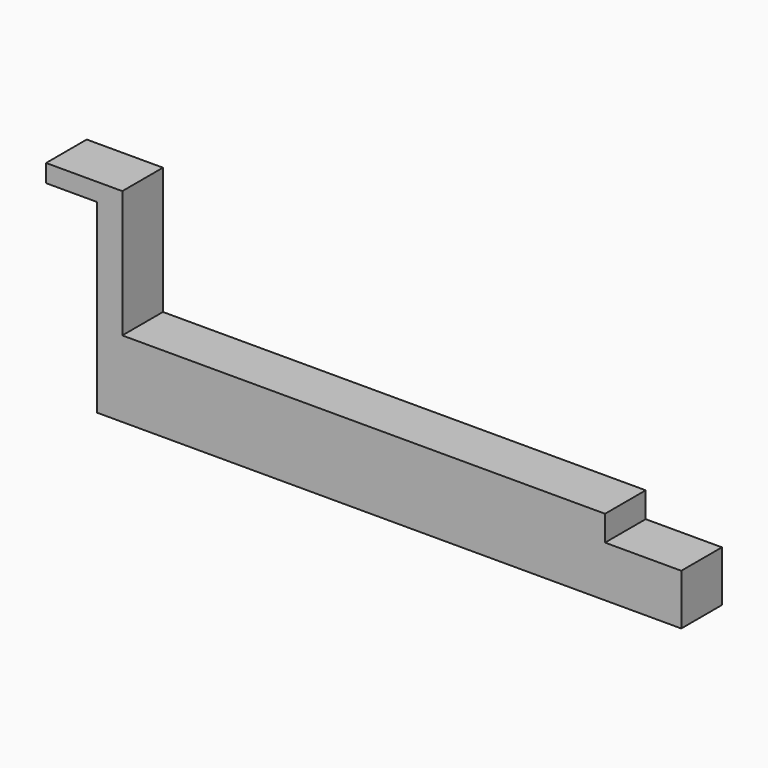
from build123d import *

# Parameters (mm, degrees)
F0_W     = 115
F0_H     = 15
F1_DEPTH = 10
F2_W     = 15
F2_H     = 10
F3_DEPTH = 5
F4_W     = 5
F4_H     = 10
F5_DEPTH = 25
F6_W     = 10
F6_H     = 3.5
F7_DEPTH = 10


with BuildPart() as f1:
    # F0 (on Front) → F1 (new body)
    with BuildSketch(Plane.XZ):
        Rectangle(F0_W, F0_H)
    extrude(amount=F1_DEPTH)

    # F2 (on face) → F3 (cut)
    with BuildSketch(Plane.XY.offset(7.5)):
        with Locations((50, -5)):
            Rectangle(F2_W, F2_H)
    extrude(amount=-F3_DEPTH, mode=Mode.SUBTRACT)

    # F4 (on face) → F5 (join)
    with BuildSketch(Plane.XY.offset(7.5)):
        with Locations((-55, -5)):
            Rectangle(F4_W, F4_H)
    extrude(amount=F5_DEPTH)

    # F6 (on face) → F7 (join)
    with BuildSketch(Plane(origin=(-57.5, 0, 0), x_dir=(0, -1, 0), z_dir=(-1, 0, 0))):
        with Locations((5, 30.75)):
            Rectangle(F6_W, F6_H)
    extrude(amount=F7_DEPTH)


solid = f1.part
